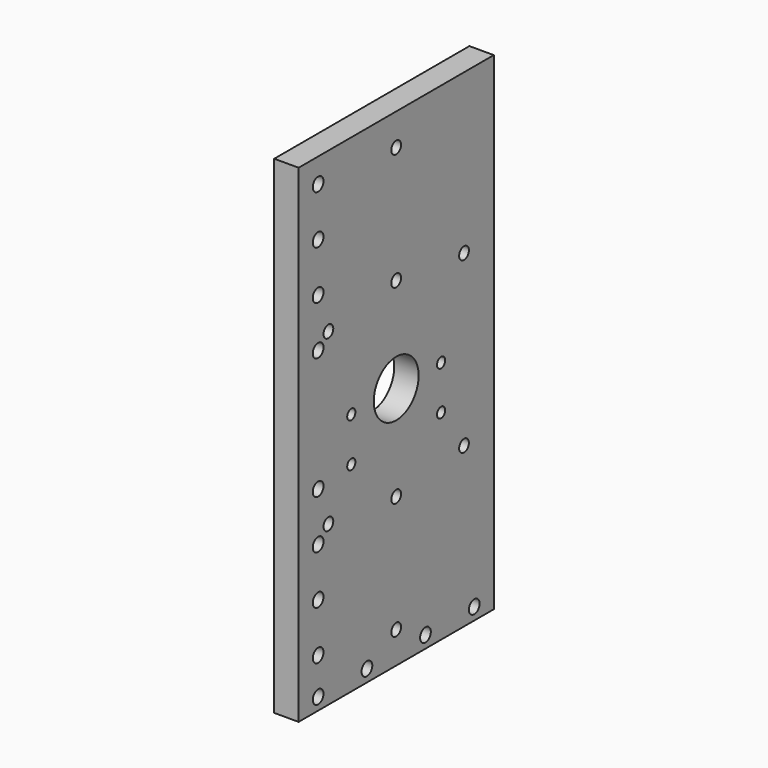
from build123d import *

# Parameters (mm, degrees)
F0_W     = 100
F0_H     = 200
F1_DEPTH = 10
F2_D     = 5
F3_D     = 4.2
F4_D     = 23
F5_D     = 5.5
F6_D     = 5.5
F7_D     = 5
F7_DEPTH = 15
F7_TIP   = 1.5021515476


with BuildPart() as f1:
    # F0 (on Right) → F1 (new body)
    with BuildSketch(Plane.YZ):
        Rectangle(F0_W, F0_H)
    extrude(amount=-F1_DEPTH)

    # F2 (through all)
    with Locations(Plane.YZ):
        with Locations((0, 39), (0, 87), (0, -39), (0, -87)):
            Hole(F2_D / 2)

    # F3 (through all)
    with Locations(Plane.YZ):
        with Locations((-23, -18), (-23, 0), (23, 0), (23, -18)):
            Hole(F3_D / 2)

    # F4 (through all)
    with Locations(Plane.YZ):
        with Locations((0, 0)):
            Hole(F4_D / 2)

    # F5 (through all)
    with Locations(Plane.YZ):
        with Locations((-40, 90), (-40, 70), (-40, 50), (-40, 30), (-40, -20), (-40, -40), (-40, -60), (-40, -80)):
            Hole(F5_D / 2)

    # F6 (through all)
    with Locations(Plane.YZ):
        with Locations((-40, -95), (-15, -95), (15, -95), (40, -95)):
            Hole(F6_D / 2)

    # F7
    with Locations(Plane.YZ):
        with Locations((34.75, 34.75), (-34.75, 34.75), (-34.75, -34.75), (34.75, -34.75)):
            Hole(F7_D / 2, depth=F7_DEPTH)
            with Locations((0, 0, -(F7_DEPTH + F7_TIP / 2))):  # 118° drill point
                Cone(0, F7_D / 2, F7_TIP, mode=Mode.SUBTRACT)


solid = f1.part
